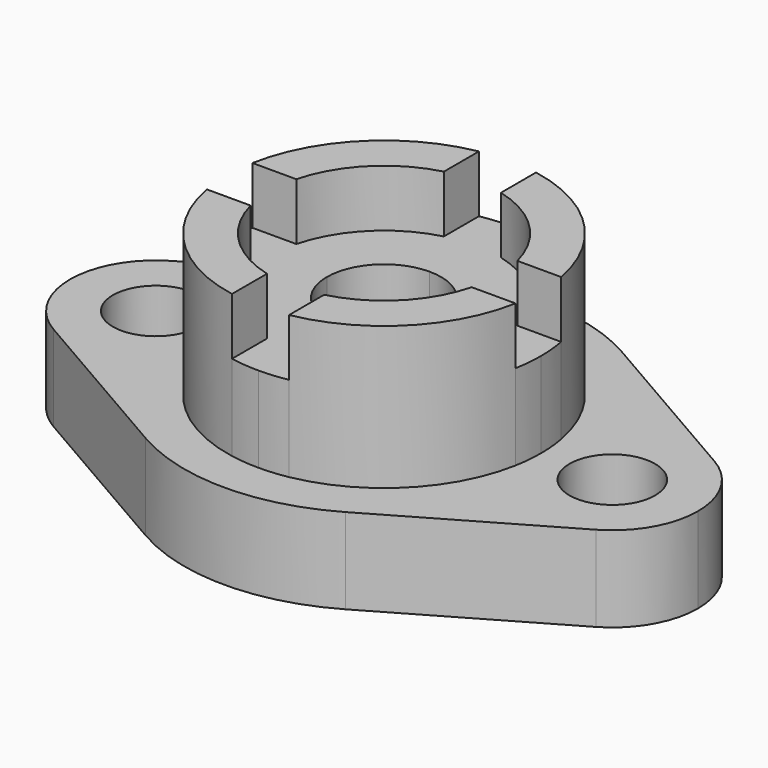
from build123d import *

# Parameters (mm, degrees)
F1_DEPTH = 19.05
F2_DEPTH = 38.1
F3_DEPTH = 50.8


with BuildPart() as f1:
    # F0 (on Top) → F1 (new body)
    with BuildSketch(Plane.XY):
        with BuildLine():
            Line((41.275, 0), (34.925, 0))
            ThreePointArc((34.925, 0), (34.7791644937, -3.1883133656), (34.3428758988, -6.35))
            ThreePointArc((34.3428758988, -6.35), (24.6957043329, -24.6957043329), (6.35, -34.3428758988))
            ThreePointArc((6.35, -34.3428758988), (3.1883133656, -34.7791644937), (0, -34.925))
            ThreePointArc((0, -34.925), (-3.1883133656, -34.7791644937), (-6.35, -34.3428758988))
            ThreePointArc((-6.35, -34.3428758988), (-24.6957043329, -24.6957043329), (-34.3428758988, -6.35))
            ThreePointArc((-34.3428758988, -6.35), (-34.7791644937, -3.1883133656), (-34.925, 0))
            ThreePointArc((-34.925, 0), (-34.7791644937, 3.1883133656), (-34.3428758988, 6.35))
            ThreePointArc((-34.3428758988, 6.35), (-24.6957043329, 24.6957043329), (-6.35, 34.3428758988))
            ThreePointArc((-6.35, 34.3428758988), (-3.1883133656, 34.7791644937), (0, 34.925))
            Line((0, 34.925), (0, 44.45))
            ThreePointArc((0, 44.45), (-11.5045065548, 42.9354029785), (-22.225, 38.4948291982))
            Line((-22.225, 38.4948291982), (-60.325, 16.4977839421))
            ThreePointArc((-60.325, 16.4977839421), (-67.2977839421, 9.525), (-69.85, 0))
            ThreePointArc((-69.85, 0), (-67.2977839421, -9.525), (-60.325, -16.4977839421))
            Line((-60.325, -16.4977839421), (-22.225, -38.4948291982))
            ThreePointArc((-22.225, -38.4948291982), (0, -44.45), (22.225, -38.4948291982))
            Line((22.225, -38.4948291982), (60.325, -16.4977839421))
            ThreePointArc((60.325, -16.4977839421), (67.2977839421, -9.525), (69.85, 0))
            Line((69.85, 0), (60.325, 0))
            ThreePointArc((60.325, 0), (50.8, -9.525), (41.275, 0))
        make_face()
        with BuildLine():
            ThreePointArc((-41.275, 0), (-50.8, -9.525), (-60.325, 0))
            ThreePointArc((-60.325, 0), (-50.8, 9.525), (-41.275, 0))
        make_face(mode=Mode.SUBTRACT)
        with BuildLine():
            ThreePointArc((34.3428758988, 6.35), (34.7791644937, 3.1883133656), (34.925, 0))
            Line((34.925, 0), (41.275, 0))
            ThreePointArc((41.275, 0), (50.8, 9.525), (60.325, 0))
            Line((60.325, 0), (69.85, 0))
            ThreePointArc((69.85, 0), (67.2977839421, 9.525), (60.325, 16.4977839421))
            Line((60.325, 16.4977839421), (22.225, 38.4948291982))
            ThreePointArc((22.225, 38.4948291982), (11.5045065548, 42.9354029785), (0, 44.45))
            Line((0, 44.45), (0, 34.925))
            ThreePointArc((0, 34.925), (3.1883133656, 34.7791644937), (6.35, 34.3428758988))
            ThreePointArc((6.35, 34.3428758988), (24.6957043329, 24.6957043329), (34.3428758988, 6.35))
        make_face()
    extrude(amount=F1_DEPTH)

    # F0 (on Top) → F2 (join)
    with BuildSketch(Plane.XY):
        with BuildLine():
            Line((-6.35, -34.3428758988), (-6.35, -24.5934442484))
            ThreePointArc((-6.35, -24.5934442484), (-17.9605122421, -17.9605122421), (-24.5934442484, -6.35))
            Line((-24.5934442484, -6.35), (-34.3428758988, -6.35))
            ThreePointArc((-34.3428758988, -6.35), (-24.6957043329, -24.6957043329), (-6.35, -34.3428758988))
        make_face()
        with BuildLine():
            ThreePointArc((-24.5934442484, -6.35), (-25.1975542852, -3.2005090291), (-25.4, 0))
            Line((-25.4, 0), (-34.925, 0))
            ThreePointArc((-34.925, 0), (-34.7791644937, -3.1883133656), (-34.3428758988, -6.35))
            Line((-34.3428758988, -6.35), (-24.5934442484, -6.35))
        make_face()
        with BuildLine():
            Line((-34.925, 0), (-25.4, 0))
            ThreePointArc((-25.4, 0), (-25.1975542852, 3.2005090291), (-24.5934442484, 6.35))
            Line((-24.5934442484, 6.35), (-34.3428758988, 6.35))
            ThreePointArc((-34.3428758988, 6.35), (-34.7791644937, 3.1883133656), (-34.925, 0))
        make_face()
        with BuildLine():
            ThreePointArc((-24.5934442484, 6.35), (-17.9605122421, 17.9605122421), (-6.35, 24.5934442484))
            Line((-6.35, 24.5934442484), (-6.35, 34.3428758988))
            ThreePointArc((-6.35, 34.3428758988), (-24.6957043329, 24.6957043329), (-34.3428758988, 6.35))
            Line((-34.3428758988, 6.35), (-24.5934442484, 6.35))
        make_face()
        with BuildLine():
            ThreePointArc((-6.35, 24.5934442484), (-3.2005090291, 25.1975542852), (0, 25.4))
            Line((0, 25.4), (0, 34.925))
            ThreePointArc((0, 34.925), (-3.1883133656, 34.7791644937), (-6.35, 34.3428758988))
            Line((-6.35, 34.3428758988), (-6.35, 24.5934442484))
        make_face()
        with BuildLine():
            Line((0, 34.925), (0, 25.4))
            ThreePointArc((0, 25.4), (3.2005090291, 25.1975542852), (6.35, 24.5934442484))
            Line((6.35, 24.5934442484), (6.35, 34.3428758988))
            ThreePointArc((6.35, 34.3428758988), (3.1883133656, 34.7791644937), (0, 34.925))
        make_face()
        with BuildLine():
            ThreePointArc((6.35, 24.5934442484), (17.9605122421, 17.9605122421), (24.5934442484, 6.35))
            Line((24.5934442484, 6.35), (34.3428758988, 6.35))
            ThreePointArc((34.3428758988, 6.35), (24.6957043329, 24.6957043329), (6.35, 34.3428758988))
            Line((6.35, 34.3428758988), (6.35, 24.5934442484))
        make_face()
        with BuildLine():
            ThreePointArc((24.5934442484, 6.35), (25.1975542852, 3.2005090291), (25.4, 0))
            Line((25.4, 0), (34.925, 0))
            ThreePointArc((34.925, 0), (34.7791644937, 3.1883133656), (34.3428758988, 6.35))
            Line((34.3428758988, 6.35), (24.5934442484, 6.35))
        make_face()
        with BuildLine():
            ThreePointArc((6.35, -24.5934442484), (3.2005090291, -25.1975542852), (0, -25.4))
            Line((0, -25.4), (0, -34.925))
            ThreePointArc((0, -34.925), (3.1883133656, -34.7791644937), (6.35, -34.3428758988))
            Line((6.35, -34.3428758988), (6.35, -24.5934442484))
        make_face()
        with BuildLine():
            Line((0, -34.925), (0, -25.4))
            ThreePointArc((0, -25.4), (-3.2005090291, -25.1975542852), (-6.35, -24.5934442484))
            Line((-6.35, -24.5934442484), (-6.35, -34.3428758988))
            ThreePointArc((-6.35, -34.3428758988), (-3.1883133656, -34.7791644937), (0, -34.925))
        make_face()
        with BuildLine():
            Line((34.925, 0), (25.4, 0))
            ThreePointArc((25.4, 0), (25.1975542852, -3.2005090291), (24.5934442484, -6.35))
            Line((24.5934442484, -6.35), (34.3428758988, -6.35))
            ThreePointArc((34.3428758988, -6.35), (34.7791644937, -3.1883133656), (34.925, 0))
        make_face()
        with BuildLine():
            Line((34.3428758988, -6.35), (24.5934442484, -6.35))
            ThreePointArc((24.5934442484, -6.35), (17.9605122421, -17.9605122421), (6.35, -24.5934442484))
            Line((6.35, -24.5934442484), (6.35, -34.3428758988))
            ThreePointArc((6.35, -34.3428758988), (24.6957043329, -24.6957043329), (34.3428758988, -6.35))
        make_face()
        with BuildLine():
            Line((0, -25.4), (0, -12.7))
            ThreePointArc((0, -12.7), (-8.9802561211, -8.9802561211), (-12.7, 0))
            Line((-12.7, 0), (-25.4, 0))
            ThreePointArc((-25.4, 0), (-25.1975542852, -3.2005090291), (-24.5934442484, -6.35))
            ThreePointArc((-24.5934442484, -6.35), (-17.9605122421, -17.9605122421), (-6.35, -24.5934442484))
            ThreePointArc((-6.35, -24.5934442484), (-3.2005090291, -25.1975542852), (0, -25.4))
        make_face()
        with BuildLine():
            Line((25.4, 0), (12.7, 0))
            ThreePointArc((12.7, 0), (8.9802561211, -8.9802561211), (0, -12.7))
            Line((0, -12.7), (0, -25.4))
            ThreePointArc((0, -25.4), (3.2005090291, -25.1975542852), (6.35, -24.5934442484))
            ThreePointArc((6.35, -24.5934442484), (17.9605122421, -17.9605122421), (24.5934442484, -6.35))
            ThreePointArc((24.5934442484, -6.35), (25.1975542852, -3.2005090291), (25.4, 0))
        make_face()
        with BuildLine():
            ThreePointArc((0, 12.7), (8.9802561211, 8.9802561211), (12.7, 0))
            Line((12.7, 0), (25.4, 0))
            ThreePointArc((25.4, 0), (25.1975542852, 3.2005090291), (24.5934442484, 6.35))
            ThreePointArc((24.5934442484, 6.35), (17.9605122421, 17.9605122421), (6.35, 24.5934442484))
            ThreePointArc((6.35, 24.5934442484), (3.2005090291, 25.1975542852), (0, 25.4))
            Line((0, 25.4), (0, 12.7))
        make_face()
        with BuildLine():
            ThreePointArc((-12.7, 0), (-8.9802561211, 8.9802561211), (0, 12.7))
            Line((0, 12.7), (0, 25.4))
            ThreePointArc((0, 25.4), (-3.2005090291, 25.1975542852), (-6.35, 24.5934442484))
            ThreePointArc((-6.35, 24.5934442484), (-17.9605122421, 17.9605122421), (-24.5934442484, 6.35))
            ThreePointArc((-24.5934442484, 6.35), (-25.1975542852, 3.2005090291), (-25.4, 0))
            Line((-25.4, 0), (-12.7, 0))
        make_face()
    extrude(amount=F2_DEPTH)

    # F0 (on Top) → F3 (join)
    with BuildSketch(Plane.XY):
        with BuildLine():
            Line((-6.35, -34.3428758988), (-6.35, -24.5934442484))
            ThreePointArc((-6.35, -24.5934442484), (-17.9605122421, -17.9605122421), (-24.5934442484, -6.35))
            Line((-24.5934442484, -6.35), (-34.3428758988, -6.35))
            ThreePointArc((-34.3428758988, -6.35), (-24.6957043329, -24.6957043329), (-6.35, -34.3428758988))
        make_face()
        with BuildLine():
            Line((34.3428758988, -6.35), (24.5934442484, -6.35))
            ThreePointArc((24.5934442484, -6.35), (17.9605122421, -17.9605122421), (6.35, -24.5934442484))
            Line((6.35, -24.5934442484), (6.35, -34.3428758988))
            ThreePointArc((6.35, -34.3428758988), (24.6957043329, -24.6957043329), (34.3428758988, -6.35))
        make_face()
        with BuildLine():
            ThreePointArc((6.35, 24.5934442484), (17.9605122421, 17.9605122421), (24.5934442484, 6.35))
            Line((24.5934442484, 6.35), (34.3428758988, 6.35))
            ThreePointArc((34.3428758988, 6.35), (24.6957043329, 24.6957043329), (6.35, 34.3428758988))
            Line((6.35, 34.3428758988), (6.35, 24.5934442484))
        make_face()
        with BuildLine():
            ThreePointArc((-24.5934442484, 6.35), (-17.9605122421, 17.9605122421), (-6.35, 24.5934442484))
            Line((-6.35, 24.5934442484), (-6.35, 34.3428758988))
            ThreePointArc((-6.35, 34.3428758988), (-24.6957043329, 24.6957043329), (-34.3428758988, 6.35))
            Line((-34.3428758988, 6.35), (-24.5934442484, 6.35))
        make_face()
    extrude(amount=F3_DEPTH)


solid = f1.part
